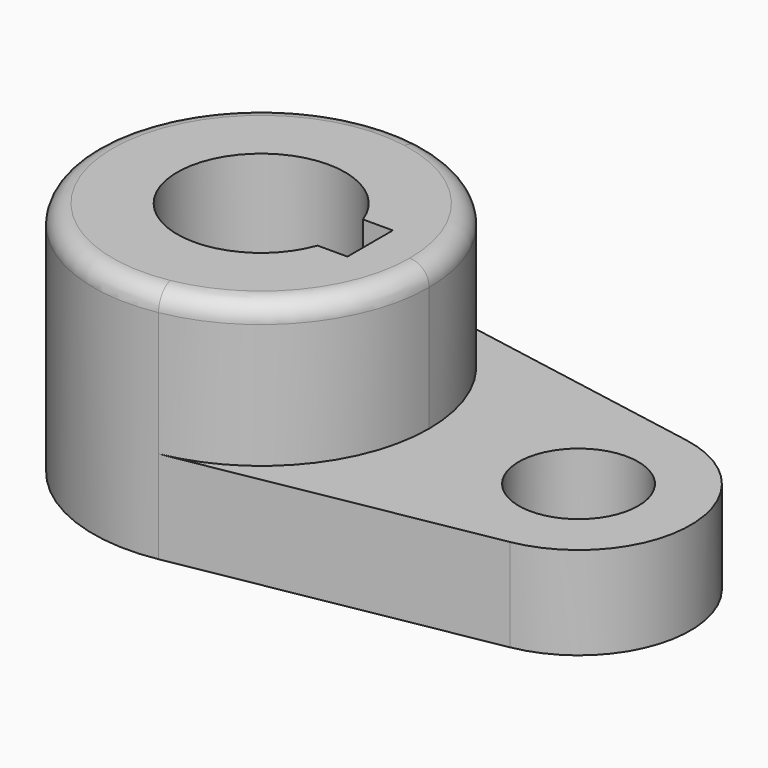
from build123d import *

# Parameters (mm, degrees)
F1_DEPTH = 40.2336
F0_R     = 10.16
F2_DEPTH = 15.7734
F3_R     = 3.302


with BuildPart() as f1:
    # F0 (on Top) → F1 (new body)
    with BuildSketch(Plane.XY):
        with BuildLine():
            ThreePointArc((-18.969036, 28.126541), (-52.586683, 0), (-18.969036, -28.126541))
            ThreePointArc((-18.969036, -28.126541), (-2.095659, -18.336262), (4.563317, 0))
            ThreePointArc((4.563317, 0), (-2.095659, 18.336262), (-18.969036, 28.126541))
        make_face()
        with BuildLine():
            ThreePointArc((-10.563918, -4.826), (-38.299183, 0), (-10.563918, 4.826))
            Line((-10.563918, 4.826), (-5.482383, 4.826))
            Line((-5.482383, 4.826), (-5.482383, 0))
            Line((-5.482383, 0), (-5.482383, -4.826))
            Line((-5.482383, -4.826), (-10.563918, -4.826))
        make_face(mode=Mode.SUBTRACT)
    extrude(amount=F1_DEPTH)

    # F0 (on Top) → F2 (join)
    with BuildSketch(Plane.XY):
        with BuildLine():
            Line((-18.969036, -28.126541), (33.325082, -18.751028))
            ThreePointArc((33.325082, -18.751028), (49.013317, 0), (33.325082, 18.751028))
            Line((33.325082, 18.751028), (-18.969036, 28.126541))
            ThreePointArc((-18.969036, 28.126541), (-2.095659, 18.336262), (4.563317, 0))
            ThreePointArc((4.563317, 0), (-2.095659, -18.336262), (-18.969036, -28.126541))
        make_face()
        with Locations((29.963317, 0)):
            Circle(F0_R, mode=Mode.SUBTRACT)
    extrude(amount=F2_DEPTH)

    # F3
    f3_edges = [f1.edges().sort_by_distance(p)[0] for p in [
        (-29.05433, 28.126541, 40.2336),
    ]]
    fillet(f3_edges, radius=F3_R)


solid = f1.part
